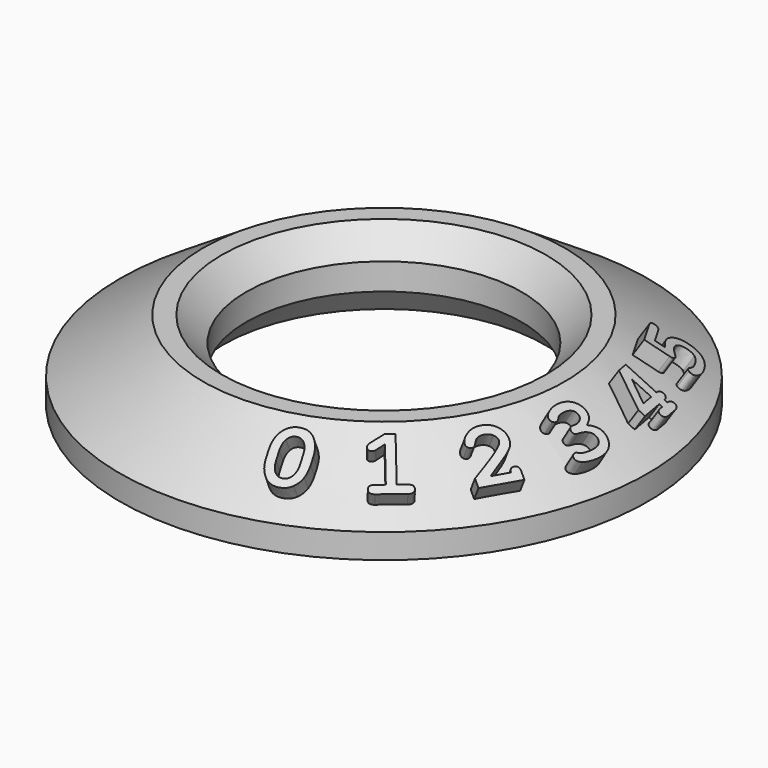
from build123d import *

# Parameters (mm, degrees)
PAD_DEPTH    = 1.2
PAD001_DEPTH = 1.2
PAD002_DEPTH = 1.2
PAD003_DEPTH = 1.2
PAD004_DEPTH = 1.2
PAD005_DEPTH = 1.2


with BuildPart() as part:
    # Sketch → Revolution (revolve)
    with BuildSketch(Plane.XZ):
        Polygon((-16, 0), (-16, 1.5), (-10.967977, 4.767834), (-9.827977, 4.767834), (-8.356067, 3.270008), (-8.356067, 1.661224), (-9.75, 0), align=None)
    revolve(axis=Axis((0, 0, 0), (0, 0, 1)))

    with BuildSketch(Plane(origin=(4.798543, -13.183887, 3.97), x_dir=(0.939693, 0.34202, 0), z_dir=(0.186278, -0.511793, 0.838671))):
        with BuildLine():
            add(Edge.make_bspline(
                [(0, 1.778571), (0.545089, 1.778571), (0.830525, 1.362556)],
                knots=[0, 0, 0, 1, 1, 1], degree=2))
            add(Edge.make_bspline(
                [(-0.624944, 1.57048), (-0.365123, 1.778571), (0, 1.778571)],
                knots=[0, 0, 0, 1, 1, 1], degree=2))
            add(Edge.make_bspline(
                [(-1.000279, 1.046652), (-0.884598, 1.362556), (-0.624944, 1.57048)],
                knots=[0, 0, 0, 1, 1, 1], degree=2))
            add(Edge.make_bspline(
                [(-1.11596, 0.345703), (-1.11596, 0.730915), (-1.000279, 1.046652)],
                knots=[0, 0, 0, 1, 1, 1], degree=2))
            Line((-1.11596, 0.345703), (-1.11596, -0.142132))
            add(Edge.make_bspline(
                [(-0.830525, -1.158984), (-1.11596, -0.742969), (-1.11596, -0.142132)],
                knots=[0, 0, 0, 1, 1, 1], degree=2))
            add(Edge.make_bspline(
                [(0, -1.575), (-0.545089, -1.575), (-0.830525, -1.158984)],
                knots=[0, 0, 0, 1, 1, 1], degree=2))
            add(Edge.make_bspline(
                [(0.624777, -1.367076), (0.365123, -1.575), (0, -1.575)],
                knots=[0, 0, 0, 1, 1, 1], degree=2))
            add(Edge.make_bspline(
                [(1.000279, -0.843248), (0.884598, -1.158984), (0.624777, -1.367076)],
                knots=[0, 0, 0, 1, 1, 1], degree=2))
            add(Edge.make_bspline(
                [(1.11596, -0.142132), (1.11596, -0.527344), (1.000279, -0.843248)],
                knots=[0, 0, 0, 1, 1, 1], degree=2))
            Line((1.11596, -0.142132), (1.11596, 0.345703))
            add(Edge.make_bspline(
                [(0.830525, 1.362556), (1.11596, 0.94654), (1.11596, 0.345703)],
                knots=[0, 0, 0, 1, 1, 1], degree=2))
        make_face()
        with BuildLine():
            Line((-0.601674, -0.177958), (-0.601674, 0.381529))
            add(Edge.make_bspline(
                [(-0.437109, 1.023047), (-0.601674, 0.781808), (-0.601674, 0.381529)],
                knots=[0, 0, 0, 1, 1, 1], degree=2))
            add(Edge.make_bspline(
                [(0, 1.264286), (-0.272545, 1.264286), (-0.437109, 1.023047)],
                knots=[0, 0, 0, 1, 1, 1], degree=2))
            add(Edge.make_bspline(
                [(0.437109, 1.023047), (0.272545, 1.264286), (0, 1.264286)],
                knots=[0, 0, 0, 1, 1, 1], degree=2))
            add(Edge.make_bspline(
                [(0.601674, 0.381529), (0.601674, 0.781808), (0.437109, 1.023047)],
                knots=[0, 0, 0, 1, 1, 1], degree=2))
            Line((0.601674, 0.381529), (0.601674, -0.177958))
            add(Edge.make_bspline(
                [(0.437109, -0.819475), (0.601674, -0.578237), (0.601674, -0.177958)],
                knots=[0, 0, 0, 1, 1, 1], degree=2))
            add(Edge.make_bspline(
                [(0, -1.060714), (0.272545, -1.060714), (0.437109, -0.819475)],
                knots=[0, 0, 0, 1, 1, 1], degree=2))
            add(Edge.make_bspline(
                [(-0.437109, -0.819475), (-0.272545, -1.060714), (0, -1.060714)],
                knots=[0, 0, 0, 1, 1, 1], degree=2))
            add(Edge.make_bspline(
                [(-0.601674, -0.177958), (-0.601674, -0.578237), (-0.437109, -0.819475)],
                knots=[0, 0, 0, 1, 1, 1], degree=2))
        make_face(mode=Mode.SUBTRACT)
    extrude(amount=-PAD_DEPTH)

    with BuildSketch(Plane(origin=(9.01831, -10.747604, 3.97), x_dir=(0.766044, 0.642788, 0), z_dir=(0.350087, -0.417218, 0.838671))):
        with BuildLine():
            add(Edge.make_bspline(
                [(-1.11596, -1.242857), (-1.11596, -1.093694), (-1.028571, -1.039788)],
                knots=[0, 0, 0, 1, 1, 1], degree=2))
            add(Edge.make_bspline(
                [(-0.776618, -1.5), (-1.11596, -1.5), (-1.11596, -1.242857)],
                knots=[0, 0, 0, 1, 1, 1], degree=2))
            Line((-0.776618, -1.5), (0.776618, -1.5))
            add(Edge.make_bspline(
                [(1.11596, -1.242857), (1.11596, -1.5), (0.776618, -1.5)],
                knots=[0, 0, 0, 1, 1, 1], degree=2))
            add(Edge.make_bspline(
                [(0.776618, -0.985714), (1.11596, -0.985714), (1.11596, -1.242857)],
                knots=[0, 0, 0, 1, 1, 1], degree=2))
            Line((0.776618, -0.985714), (0.257143, -0.985714))
            Line((0.257143, -0.985714), (0.257143, 1.778571))
            Line((0.257143, 1.778571), (-0.251953, 1.778571))
            Line((-0.251953, 1.778571), (-0.946205, 1.305804))
            add(Edge.make_bspline(
                [(-1.069754, 1.19029), (-1.033761, 1.244196), (-0.946205, 1.305804)],
                knots=[0, 0, 0, 1, 1, 1], degree=2))
            add(Edge.make_bspline(
                [(-1.105748, 1.054185), (-1.105748, 1.136384), (-1.069754, 1.19029)],
                knots=[0, 0, 0, 1, 1, 1], degree=2))
            add(Edge.make_bspline(
                [(-1.041462, 0.905022), (-1.105748, 0.961607), (-1.105748, 1.054185)],
                knots=[0, 0, 0, 1, 1, 1], degree=2))
            add(Edge.make_bspline(
                [(-0.889788, 0.848605), (-0.977176, 0.848605), (-1.041462, 0.905022)],
                knots=[0, 0, 0, 1, 1, 1], degree=2))
            add(Edge.make_bspline(
                [(-0.67885, 0.915402), (-0.756027, 0.848605), (-0.889788, 0.848605)],
                knots=[0, 0, 0, 1, 1, 1], degree=2))
            Line((-0.67885, 0.915402), (-0.257143, 1.213393))
            Line((-0.257143, 1.213393), (-0.257143, -0.985714))
            Line((-0.257143, -0.985714), (-0.776618, -0.985714))
            add(Edge.make_bspline(
                [(-1.028571, -1.039788), (-0.941183, -0.985714), (-0.776618, -0.985714)],
                knots=[0, 0, 0, 1, 1, 1], degree=2))
        make_face()
    extrude(amount=-PAD001_DEPTH)

    with BuildSketch(Plane(origin=(12.150336, -7.015, 3.97), x_dir=(0.5, 0.866025, 0), z_dir=(0.471671, -0.27232, 0.838671))):
        with BuildLine():
            add(Edge.make_bspline(
                [(1.141657, 0.781641), (1.141657, 0.555636), (1.046401, 0.38856)],
                knots=[0, 0, 0, 1, 1, 1], degree=2))
            add(Edge.make_bspline(
                [(0.82793, 1.493304), (1.141657, 1.208203), (1.141657, 0.781641)],
                knots=[0, 0, 0, 1, 1, 1], degree=2))
            add(Edge.make_bspline(
                [(0.046122, 1.778571), (0.514202, 1.778571), (0.82793, 1.493304)],
                knots=[0, 0, 0, 1, 1, 1], degree=2))
            add(Edge.make_bspline(
                [(-0.74322, 1.497489), (-0.421791, 1.778571), (0.046122, 1.778571)],
                knots=[0, 0, 0, 1, 1, 1], degree=2))
            add(Edge.make_bspline(
                [(-1.064648, 0.920257), (-1.064648, 1.216574), (-0.74322, 1.497489)],
                knots=[0, 0, 0, 1, 1, 1], degree=2))
            add(Edge.make_bspline(
                [(-0.987472, 0.748996), (-1.064648, 0.823158), (-1.064648, 0.920257)],
                knots=[0, 0, 0, 1, 1, 1], degree=2))
            add(Edge.make_bspline(
                [(-0.807506, 0.675), (-0.910296, 0.675), (-0.987472, 0.748996)],
                knots=[0, 0, 0, 1, 1, 1], degree=2))
            add(Edge.make_bspline(
                [(-0.648131, 0.735937), (-0.709738, 0.675), (-0.807506, 0.675)],
                knots=[0, 0, 0, 1, 1, 1], degree=2))
            add(Edge.make_bspline(
                [(-0.547852, 0.883259), (-0.586356, 0.796875), (-0.648131, 0.735937)],
                knots=[0, 0, 0, 1, 1, 1], degree=2))
            add(Edge.make_bspline(
                [(-0.457785, 1.056027), (-0.50918, 0.969643), (-0.547852, 0.883259)],
                knots=[0, 0, 0, 1, 1, 1], degree=2))
            add(Edge.make_bspline(
                [(-0.280329, 1.203348), (-0.40639, 1.142411), (-0.457785, 1.056027)],
                knots=[0, 0, 0, 1, 1, 1], degree=2))
            add(Edge.make_bspline(
                [(0.03591, 1.264286), (-0.154269, 1.264286), (-0.280329, 1.203348)],
                knots=[0, 0, 0, 1, 1, 1], degree=2))
            add(Edge.make_bspline(
                [(0.457617, 1.130692), (0.287863, 1.264286), (0.03591, 1.264286)],
                knots=[0, 0, 0, 1, 1, 1], degree=2))
            add(Edge.make_bspline(
                [(0.627372, 0.802232), (0.627372, 0.997266), (0.457617, 1.130692)],
                knots=[0, 0, 0, 1, 1, 1], degree=2))
            add(Edge.make_bspline(
                [(0.578488, 0.638002), (0.627372, 0.730413), (0.627372, 0.802232)],
                knots=[0, 0, 0, 1, 1, 1], degree=2))
            add(Edge.make_bspline(
                [(0.408733, 0.417187), (0.529604, 0.545592), (0.578488, 0.638002)],
                knots=[0, 0, 0, 1, 1, 1], degree=2))
            add(Edge.make_bspline(
                [(0.185073, 0.185993), (0.28803, 0.288783), (0.408733, 0.417187)],
                knots=[0, 0, 0, 1, 1, 1], degree=2))
            add(Edge.make_bspline(
                [(-0.123465, -0.09375), (0.082282, 0.083371), (0.185073, 0.185993)],
                knots=[0, 0, 0, 1, 1, 1], degree=2))
            add(Edge.make_bspline(
                [(-0.444894, -0.368471), (-0.329213, -0.270871), (-0.123465, -0.09375)],
                knots=[0, 0, 0, 1, 1, 1], degree=2))
            add(Edge.make_bspline(
                [(-0.815206, -0.671819), (-0.560575, -0.465904), (-0.444894, -0.368471)],
                knots=[0, 0, 0, 1, 1, 1], degree=2))
            add(Edge.make_bspline(
                [(-1.167439, -0.959933), (-1.069671, -0.877567), (-0.815206, -0.671819)],
                knots=[0, 0, 0, 1, 1, 1], degree=2))
            Line((-1.167439, -0.959933), (-1.167439, -1.5))
            Line((-1.167439, -1.5), (1.167439, -1.5))
            Line((1.167439, -1.5), (1.167439, -1.046987))
            add(Edge.make_bspline(
                [(0.910296, -0.707143), (1.167439, -0.707143), (1.167439, -1.046987)],
                knots=[0, 0, 0, 1, 1, 1], degree=2))
            add(Edge.make_bspline(
                [(0.653153, -0.985714), (0.673744, -0.707143), (0.910296, -0.707143)],
                knots=[0, 0, 0, 1, 1, 1], degree=2))
            Line((0.653153, -0.985714), (-0.380608, -0.985714))
            add(Edge.make_bspline(
                [(0.668387, -0.053237), (0.385631, -0.328125), (-0.380608, -0.985714)],
                knots=[0, 0, 0, 1, 1, 1], degree=2))
            add(Edge.make_bspline(
                [(1.046401, 0.38856), (0.951311, 0.221652), (0.668387, -0.053237)],
                knots=[0, 0, 0, 1, 1, 1], degree=2))
        make_face()
    extrude(amount=-PAD002_DEPTH)

    with BuildSketch(Plane(origin=(13.816853, -2.436284, 3.97), x_dir=(0.173648, 0.984808, 0), z_dir=(0.536365, -0.094576, 0.838671))):
        with BuildLine():
            add(Edge.make_bspline(
                [(-0.151758, -1.060714), (0.676256, -1.060714), (0.676256, -0.556473)],
                knots=[0, 0, 0, 1, 1, 1], degree=2))
            add(Edge.make_bspline(
                [(-0.52207, -1.032422), (-0.372907, -1.060714), (-0.151758, -1.060714)],
                knots=[0, 0, 0, 1, 1, 1], degree=2))
            add(Edge.make_bspline(
                [(-0.722628, -0.970647), (-0.671066, -1.004129), (-0.52207, -1.032422)],
                knots=[0, 0, 0, 1, 1, 1], degree=2))
            add(Edge.make_bspline(
                [(-0.828097, -0.908873), (-0.774023, -0.937165), (-0.722628, -0.970647)],
                knots=[0, 0, 0, 1, 1, 1], degree=2))
            add(Edge.make_bspline(
                [(-0.933398, -0.88058), (-0.882003, -0.88058), (-0.828097, -0.908873)],
                knots=[0, 0, 0, 1, 1, 1], degree=2))
            add(Edge.make_bspline(
                [(-1.116044, -0.955246), (-1.041378, -0.88058), (-0.933398, -0.88058)],
                knots=[0, 0, 0, 1, 1, 1], degree=2))
            add(Edge.make_bspline(
                [(-1.190541, -1.137891), (-1.190541, -1.029743), (-1.116044, -0.955246)],
                knots=[0, 0, 0, 1, 1, 1], degree=2))
            add(Edge.make_bspline(
                [(-0.900084, -1.454129), (-1.190541, -1.333259), (-1.190541, -1.137891)],
                knots=[0, 0, 0, 1, 1, 1], degree=2))
            add(Edge.make_bspline(
                [(-0.136356, -1.575), (-0.609459, -1.575), (-0.900084, -1.454129)],
                knots=[0, 0, 0, 1, 1, 1], degree=2))
            add(Edge.make_bspline(
                [(0.514202, -1.482422), (0.239146, -1.575), (-0.136356, -1.575)],
                knots=[0, 0, 0, 1, 1, 1], degree=2))
            add(Edge.make_bspline(
                [(0.928209, -1.23298), (0.789425, -1.389844), (0.514202, -1.482422)],
                knots=[0, 0, 0, 1, 1, 1], degree=2))
            add(Edge.make_bspline(
                [(1.128767, -0.911551), (1.06716, -1.076116), (0.928209, -1.23298)],
                knots=[0, 0, 0, 1, 1, 1], degree=2))
            add(Edge.make_bspline(
                [(1.190541, -0.561663), (1.190541, -0.746819), (1.128767, -0.911551)],
                knots=[0, 0, 0, 1, 1, 1], degree=2))
            add(Edge.make_bspline(
                [(0.609459, 0.209598), (1.190541, -0.071317), (1.190541, -0.561663)],
                knots=[0, 0, 0, 1, 1, 1], degree=2))
            add(Edge.make_bspline(
                [(0.969392, 0.514286), (0.861412, 0.358092), (0.609459, 0.209598)],
                knots=[0, 0, 0, 1, 1, 1], degree=2))
            add(Edge.make_bspline(
                [(1.077372, 0.88058), (1.077372, 0.670647), (0.969392, 0.514286)],
                knots=[0, 0, 0, 1, 1, 1], degree=2))
            add(Edge.make_bspline(
                [(0.781557, 1.520424), (1.077372, 1.262444), (1.077372, 0.88058)],
                knots=[0, 0, 0, 1, 1, 1], degree=2))
            add(Edge.make_bspline(
                [(0.017997, 1.778571), (0.48591, 1.778571), (0.781557, 1.520424)],
                knots=[0, 0, 0, 1, 1, 1], degree=2))
            add(Edge.make_bspline(
                [(-0.717606, 1.604297), (-0.393499, 1.778571), (0.017997, 1.778571)],
                knots=[0, 0, 0, 1, 1, 1], degree=2))
            add(Edge.make_bspline(
                [(-1.041546, 1.20971), (-1.041546, 1.43019), (-0.717606, 1.604297)],
                knots=[0, 0, 0, 1, 1, 1], degree=2))
            add(Edge.make_bspline(
                [(-0.967048, 1.030413), (-1.041546, 1.107254), (-1.041546, 1.20971)],
                knots=[0, 0, 0, 1, 1, 1], degree=2))
            add(Edge.make_bspline(
                [(-0.789425, 0.953571), (-0.892383, 0.953571), (-0.967048, 1.030413)],
                knots=[0, 0, 0, 1, 1, 1], degree=2))
            add(Edge.make_bspline(
                [(-0.637751, 1.001953), (-0.702037, 0.953571), (-0.789425, 0.953571)],
                knots=[0, 0, 0, 1, 1, 1], degree=2))
            add(Edge.make_bspline(
                [(-0.52726, 1.108929), (-0.573465, 1.050335), (-0.637751, 1.001953)],
                knots=[0, 0, 0, 1, 1, 1], degree=2))
            add(Edge.make_bspline(
                [(-0.347294, 1.215904), (-0.480887, 1.167522), (-0.52726, 1.108929)],
                knots=[0, 0, 0, 1, 1, 1], degree=2))
            add(Edge.make_bspline(
                [(-0.012974, 1.264286), (-0.213532, 1.264286), (-0.347294, 1.215904)],
                knots=[0, 0, 0, 1, 1, 1], degree=2))
            add(Edge.make_bspline(
                [(0.408733, 1.15798), (0.254548, 1.264286), (-0.012974, 1.264286)],
                knots=[0, 0, 0, 1, 1, 1], degree=2))
            add(Edge.make_bspline(
                [(0.563086, 0.870201), (0.563086, 1.051674), (0.408733, 1.15798)],
                knots=[0, 0, 0, 1, 1, 1], degree=2))
            add(Edge.make_bspline(
                [(0.424135, 0.582422), (0.563086, 0.704297), (0.563086, 0.870201)],
                knots=[0, 0, 0, 1, 1, 1], degree=2))
            add(Edge.make_bspline(
                [(0.095006, 0.460714), (0.285352, 0.460714), (0.424135, 0.582422)],
                knots=[0, 0, 0, 1, 1, 1], degree=2))
            Line((0.095006, 0.460714), (-0.110575, 0.460714))
            add(Edge.make_bspline(
                [(-0.303599, 0.390402), (-0.228934, 0.460714), (-0.110575, 0.460714)],
                knots=[0, 0, 0, 1, 1, 1], degree=2))
            add(Edge.make_bspline(
                [(-0.378097, 0.209598), (-0.378097, 0.320089), (-0.303599, 0.390402)],
                knots=[0, 0, 0, 1, 1, 1], degree=2))
            add(Edge.make_bspline(
                [(-0.110575, -0.021429), (-0.378097, -0.006362), (-0.378097, 0.209598)],
                knots=[0, 0, 0, 1, 1, 1], degree=2))
            add(Edge.make_bspline(
                [(0.470508, -0.186161), (0.26476, -0.04202), (-0.110575, -0.021429)],
                knots=[0, 0, 0, 1, 1, 1], degree=2))
            add(Edge.make_bspline(
                [(0.676256, -0.556473), (0.676256, -0.330134), (0.470508, -0.186161)],
                knots=[0, 0, 0, 1, 1, 1], degree=2))
        make_face()
    extrude(amount=-PAD003_DEPTH)

    with BuildSketch(Plane(origin=(13.816853, 2.436284, 3.97), x_dir=(-0.173648, 0.984808, 0), z_dir=(0.536365, 0.094576, 0.838671))):
        with BuildLine():
            add(Edge.make_bspline(
                [(0.090067, -1.5), (-0.249442, -1.5), (-0.249442, -1.242857)],
                knots=[0, 0, 0, 1, 1, 1], degree=2))
            Line((0.090067, -1.5), (0.768917, -1.5))
            add(Edge.make_bspline(
                [(1.113449, -1.242857), (1.113449, -1.5), (0.768917, -1.5)],
                knots=[0, 0, 0, 1, 1, 1], degree=2))
            add(Edge.make_bspline(
                [(0.799721, -0.985714), (1.113449, -0.985714), (1.113449, -1.242857)],
                knots=[0, 0, 0, 1, 1, 1], degree=2))
            Line((0.799721, -0.985714), (0.799721, -0.792857))
            add(Edge.make_bspline(
                [(1.113449, -0.535714), (1.113449, -0.782645), (0.799721, -0.792857)],
                knots=[0, 0, 0, 1, 1, 1], degree=2))
            add(Edge.make_bspline(
                [(0.799721, -0.278571), (1.113449, -0.278571), (1.113449, -0.535714)],
                knots=[0, 0, 0, 1, 1, 1], degree=2))
            Line((0.799721, -0.278571), (0.799721, 1.692857))
            Line((0.799721, 1.692857), (0.12606, 1.692857))
            Line((0.12606, 1.692857), (-1.113449, -0.36596))
            Line((-1.113449, -0.36596), (-1.113449, -0.792857))
            Line((-1.113449, -0.792857), (0.285435, -0.792857))
            Line((0.285435, -0.792857), (0.285435, -0.985714))
            Line((0.285435, -0.985714), (0.090067, -0.985714))
            add(Edge.make_bspline(
                [(-0.249442, -1.242857), (-0.249442, -0.985714), (0.090067, -0.985714)],
                knots=[0, 0, 0, 1, 1, 1], degree=2))
        make_face()
        Polygon((0.285435, 0.966127), (0.285435, -0.278571), (-0.485993, -0.278571), align=None, mode=Mode.SUBTRACT)
    extrude(amount=-PAD004_DEPTH)

    with BuildSketch(Plane(origin=(12.150336, 7.015, 3.97), x_dir=(-0.5, 0.866025, 0), z_dir=(0.471671, 0.27232, 0.838671))):
        with BuildLine():
            add(Edge.make_bspline(
                [(0.974581, 1.446429), (0.974581, 1.189286), (0.635073, 1.189286)],
                knots=[0, 0, 0, 1, 1, 1], degree=2))
            add(Edge.make_bspline(
                [(0.887193, 1.649498), (0.974581, 1.595592), (0.974581, 1.446429)],
                knots=[0, 0, 0, 1, 1, 1], degree=2))
            add(Edge.make_bspline(
                [(0.635073, 1.703571), (0.799805, 1.703571), (0.887193, 1.649498)],
                knots=[0, 0, 0, 1, 1, 1], degree=2))
            Line((0.635073, 1.703571), (-0.917997, 1.703571))
            Line((-0.917997, 1.703571), (-0.917997, 0.244754))
            add(Edge.make_bspline(
                [(-0.84601, 0.039342), (-0.917997, 0.12154), (-0.917997, 0.244754)],
                knots=[0, 0, 0, 1, 1, 1], degree=2))
            add(Edge.make_bspline(
                [(-0.660854, -0.042857), (-0.774023, -0.042857), (-0.84601, 0.039342)],
                knots=[0, 0, 0, 1, 1, 1], degree=2))
            add(Edge.make_bspline(
                [(-0.367718, 0.064286), (-0.62486, -0.042857), (-0.660854, -0.042857)],
                knots=[0, 0, 0, 1, 1, 1], degree=2))
            add(Edge.make_bspline(
                [(0.100195, 0.171429), (-0.110575, 0.171429), (-0.367718, 0.064286)],
                knots=[0, 0, 0, 1, 1, 1], degree=2))
            add(Edge.make_bspline(
                [(0.516713, -0.003516), (0.357338, 0.171429), (0.100195, 0.171429)],
                knots=[0, 0, 0, 1, 1, 1], degree=2))
            add(Edge.make_bspline(
                [(0.676256, -0.461384), (0.676256, -0.17846), (0.516713, -0.003516)],
                knots=[0, 0, 0, 1, 1, 1], degree=2))
            add(Edge.make_bspline(
                [(0.48591, -0.91356), (0.676256, -0.766239), (0.676256, -0.461384)],
                knots=[0, 0, 0, 1, 1, 1], degree=2))
            add(Edge.make_bspline(
                [(-0.105552, -1.060714), (0.295564, -1.060714), (0.48591, -0.91356)],
                knots=[0, 0, 0, 1, 1, 1], degree=2))
            add(Edge.make_bspline(
                [(-0.488588, -1.022042), (-0.336914, -1.060714), (-0.105552, -1.060714)],
                knots=[0, 0, 0, 1, 1, 1], degree=2))
            add(Edge.make_bspline(
                [(-0.694336, -0.93683), (-0.640262, -0.983203), (-0.488588, -1.022042)],
                knots=[0, 0, 0, 1, 1, 1], degree=2))
            add(Edge.make_bspline(
                [(-0.807506, -0.851618), (-0.74841, -0.89029), (-0.694336, -0.93683)],
                knots=[0, 0, 0, 1, 1, 1], degree=2))
            add(Edge.make_bspline(
                [(-0.933398, -0.812779), (-0.866602, -0.812779), (-0.807506, -0.851618)],
                knots=[0, 0, 0, 1, 1, 1], degree=2))
            add(Edge.make_bspline(
                [(-1.113532, -0.887779), (-1.036356, -0.812779), (-0.933398, -0.812779)],
                knots=[0, 0, 0, 1, 1, 1], degree=2))
            add(Edge.make_bspline(
                [(-1.190541, -1.065904), (-1.190541, -0.962612), (-1.113532, -0.887779)],
                knots=[0, 0, 0, 1, 1, 1], degree=2))
            add(Edge.make_bspline(
                [(-0.876814, -1.428516), (-1.190541, -1.281864), (-1.190541, -1.065904)],
                knots=[0, 0, 0, 1, 1, 1], degree=2))
            add(Edge.make_bspline(
                [(-0.100363, -1.575), (-0.563086, -1.575), (-0.876814, -1.428516)],
                knots=[0, 0, 0, 1, 1, 1], degree=2))
            add(Edge.make_bspline(
                [(0.452427, -1.497656), (0.213365, -1.575), (-0.100363, -1.575)],
                knots=[0, 0, 0, 1, 1, 1], degree=2))
            add(Edge.make_bspline(
                [(0.82793, -1.306975), (0.691657, -1.420313), (0.452427, -1.497656)],
                knots=[0, 0, 0, 1, 1, 1], degree=2))
            add(Edge.make_bspline(
                [(1.049079, -1.036272), (0.964202, -1.193471), (0.82793, -1.306975)],
                knots=[0, 0, 0, 1, 1, 1], degree=2))
            add(Edge.make_bspline(
                [(1.162249, -0.739788), (1.133956, -0.878906), (1.049079, -1.036272)],
                knots=[0, 0, 0, 1, 1, 1], degree=2))
            add(Edge.make_bspline(
                [(1.190541, -0.456194), (1.190541, -0.600502), (1.162249, -0.739788)],
                knots=[0, 0, 0, 1, 1, 1], degree=2))
            add(Edge.make_bspline(
                [(0.882003, 0.361607), (1.190541, 0.037667), (1.190541, -0.456194)],
                knots=[0, 0, 0, 1, 1, 1], degree=2))
            add(Edge.make_bspline(
                [(0.105385, 0.685714), (0.573465, 0.685714), (0.882003, 0.361607)],
                knots=[0, 0, 0, 1, 1, 1], degree=2))
            add(Edge.make_bspline(
                [(-0.403711, 0.598326), (-0.115765, 0.685714), (0.105385, 0.685714)],
                knots=[0, 0, 0, 1, 1, 1], degree=2))
            Line((-0.403711, 0.598326), (-0.403711, 1.189286))
            Line((-0.403711, 1.189286), (0.635073, 1.189286))
        make_face()
    extrude(amount=-PAD005_DEPTH)


solid = part.part
